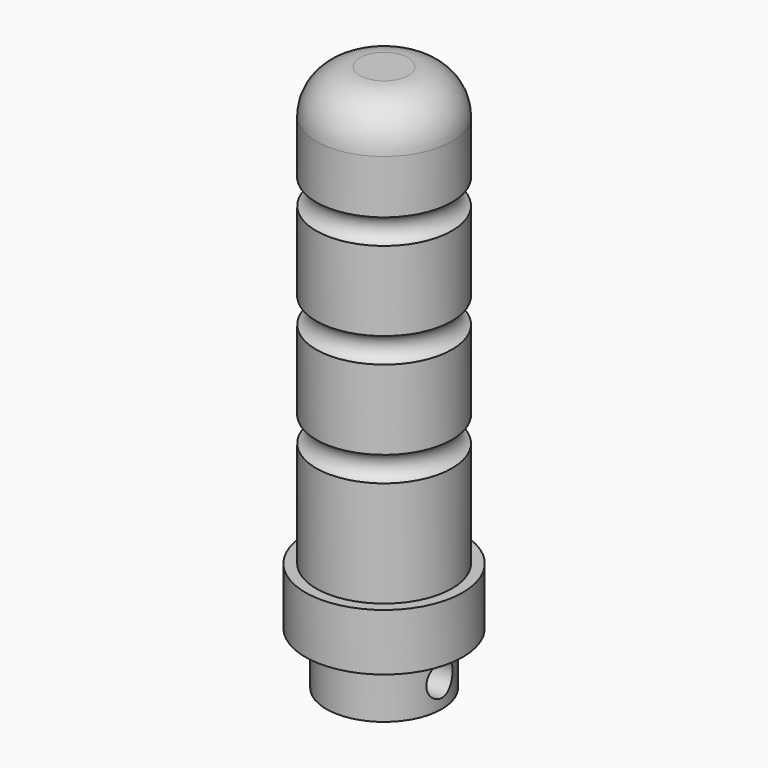
from build123d import *

# Parameters (mm, degrees)
F0_R     = 13.4112
F1_DEPTH = 12.2174
F0_R_2   = 15.7734
F2_DEPTH = 114.808
F0_R_3   = 18.28165
F3_DEPTH = 13.208
F4_R     = 10.16
F8_R     = 3.81
F9_DEPTH = 25.4


with BuildPart() as f1:
    # F0 (on Top) → F1 (new body)
    with BuildSketch(Plane.XY):
        Circle(F0_R)
    extrude(amount=-F1_DEPTH)

    # F0 (on Top) → F2 (join)
    with BuildSketch(Plane.XY):
        Circle(F0_R_2)
        Circle(F0_R, mode=Mode.SUBTRACT)
        Circle(F0_R)
    extrude(amount=F2_DEPTH)

    # F0 (on Top) → F3 (join)
    with BuildSketch(Plane.XY):
        Circle(F0_R_3)
        Circle(F0_R_2, mode=Mode.SUBTRACT)
    extrude(amount=F3_DEPTH)

    # F4
    f4_edges = [f1.edges().sort_by_distance(p)[0] for p in [
        (-15.7734, 0, 114.808),
    ]]
    fillet(f4_edges, radius=F4_R)

    # F5 (on Front) → F6 (revolve, cut)
    with BuildSketch(Plane.XZ):
        with BuildLine():
            Line((-15.7734, 43.6372), (-15.7734, 37.7952))
            ThreePointArc((-15.7734, 37.7952), (-13.7414, 40.7162), (-15.7734, 43.6372))
        make_face()
    revolve(axis=Axis((0, 0, 52.324), (0, 0, 1)), mode=Mode.SUBTRACT)

    # F5 (on Front) → F7 (revolve, cut)
    with BuildSketch(Plane.XZ):
        with BuildLine():
            Line((-15.7734, 92.202), (-15.7734, 86.36))
            ThreePointArc((-15.7734, 86.36), (-13.7414, 89.281), (-15.7734, 92.202))
        make_face()
        with BuildLine():
            Line((-15.7734, 67.9196), (-15.7734, 62.0776))
            ThreePointArc((-15.7734, 62.0776), (-13.7414, 64.9986), (-15.7734, 67.9196))
        make_face()
    revolve(axis=Axis((0, 0, 52.324), (0, 0, 1)), mode=Mode.SUBTRACT)

    # F8 (on Right) → F9 (cut, symmetric)
    with BuildSketch(Plane.YZ):
        with Locations((0, -6.1087)):
            Circle(F8_R)
    extrude(amount=F9_DEPTH, both=True, mode=Mode.SUBTRACT)


solid = f1.part
